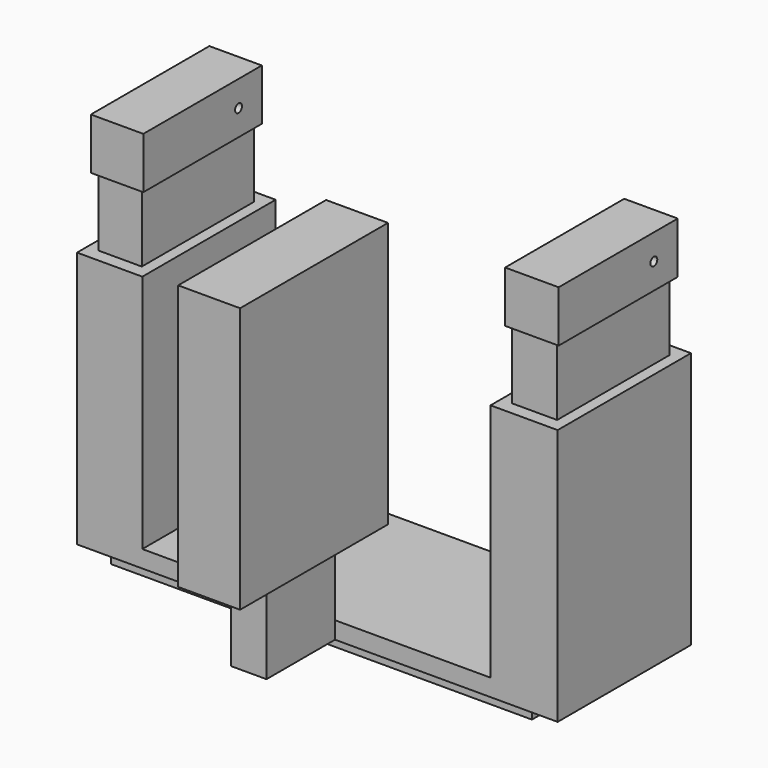
from build123d import *

# Parameters (mm, degrees)
F0_W      = 62.4516925456
F0_H      = 19.2159049461
F1_DEPTH  = 2.54
F0_W_2    = 5.240462238
F0_H_2    = 12.7
F1_FACE_W = 62.4516925456
F1_FACE_H = 19.2159049461
F2_DEPTH  = 2.54
F3_DEPTH  = 2.54
F4_DEPTH  = 12.7
F5_W      = 9.6827298403
F5_H      = 24.7204606325
F5_W_2    = 9.949860665
F6_DEPTH  = 35.56
F7_W      = 6.4173687831
F7_H      = 20.8289548615
F8_DEPTH  = 10.16
F9_W      = 6.6844996078
F9_H      = 20.8289548615
F10_DEPTH = 10.16
F11_W     = 6.4173687831
F11_H     = 20.8289548615
F12_DEPTH = 7.62
F13_W     = 6.6844996078
F13_H     = 20.8289548615
F14_DEPTH = 7.62
F16_D     = 1.27
F16_DEPTH = 127
F16_TIP   = 0.3815464931
F17_W     = 5.240462238
F17_H     = 12.7
F18_DEPTH = 39.37


with BuildPart() as f1:
    # F0 (on Top) → F1 (new body)
    with BuildSketch(Plane.XY):
        with Locations((34.3284141645, -12.7105206001)):
            Rectangle(F0_W, F0_H)
    extrude(amount=F1_DEPTH)

    # F0 (on Top) + F1_face (on face) → F2 (join)
    with BuildSketch(Plane.XY):
        Polygon((71.280462238, 0), (0, 0), (0, -24.7204606325), (33.02, -24.7204606325), (38.260462238, -24.7204606325), (71.280462238, -24.7204606325), align=None)
        with Locations((34.3284141645, -12.7105206001)):
            Rectangle(F0_W, F0_H, mode=Mode.SUBTRACT)
        with Locations((35.640231119, -31.0704606325)):
            Rectangle(F0_W_2, F0_H_2)
    with BuildSketch(Plane(origin=(34.3284141645, -12.7105206001, 0), x_dir=(1, 0, 0), z_dir=(0, 0, -1))):
        Rectangle(F1_FACE_W, F1_FACE_H)
    extrude(amount=F2_DEPTH, dir=(0, 0, 1))

    # F0 (on Top) → F3 (join)
    with BuildSketch(Plane.XY):
        with Locations((34.3284141645, -12.7105206001)):
            Rectangle(F0_W, F0_H)
    extrude(amount=-F3_DEPTH)

    # F0 (on Top) → F4 (join)
    with BuildSketch(Plane.XY):
        with Locations((35.640231119, -31.0704606325)):
            Rectangle(F0_W_2, F0_H_2)
    extrude(amount=F4_DEPTH)

    # F5 (on face) → F6 (join)
    with BuildSketch(Plane.XY.offset(2.54)):
        with Locations((4.8413649201, -12.3602303163)):
            Rectangle(F5_W, F5_H)
        with Locations((66.3055319055, -12.3602303163)):
            Rectangle(F5_W_2, F5_H)
    extrude(amount=F6_DEPTH)

    # F7 (on face) → F8 (join)
    with BuildSketch(Plane.XY.offset(38.1)):
        with Locations((4.8413649201, -12.3602303163)):
            Rectangle(F7_W, F7_H)
    extrude(amount=F8_DEPTH)

    # F9 (on face) → F10 (join)
    with BuildSketch(Plane.XY.offset(38.1)):
        with Locations((66.3055319055, -12.3602303163)):
            Rectangle(F9_W, F9_H)
    extrude(amount=F10_DEPTH)

    # F11 (on face) → F12 (join)
    with BuildSketch(Plane.XY.offset(48.26)):
        Polygon((8.7310628216, -1.3743147005), (0.9516670187, -1.3743147005), (1.6326805286, -1.9457528855), (8.0500493117, -1.9457528855), (8.0500493117, -22.774707747), (8.7310628216, -23.346145932), align=None)
        Polygon((1.6326805286, -1.9457528855), (0.9516670187, -1.3743147005), (0.9516670187, -23.346145932), (8.7310628216, -23.346145932), (8.0500493117, -22.774707747), (1.6326805286, -22.774707747), align=None)
        with Locations((4.8413649201, -12.3602303163)):
            Rectangle(F11_W, F11_H)
    extrude(amount=F12_DEPTH)

    # F13 (on face) → F14 (join)
    with BuildSketch(Plane.XY.offset(48.26)):
        Polygon((70.3287952193, -1.2647393756), (62.3918439166, -1.2647393756), (62.9632821016, -1.9457528855), (69.6477817094, -1.9457528855), (69.6477817094, -22.774707747), (70.3287952193, -23.346145932), align=None)
        Polygon((62.9632821016, -1.9457528855), (62.3918439166, -1.2647393756), (62.3918439166, -23.346145932), (70.3287952193, -23.346145932), (69.6477817094, -22.774707747), (62.9632821016, -22.774707747), align=None)
        with Locations((66.3055319055, -12.3602303163)):
            Rectangle(F13_W, F13_H)
    extrude(amount=F14_DEPTH)

    # F16
    with Locations(Plane(origin=(0.9516670187, 0, 0), x_dir=(0, -1, 0), z_dir=(-1, 0, 0))):
        with Locations((5.6923147005, 52.07)):
            Hole(F16_D / 2, depth=F16_DEPTH)
            with Locations((0, 0, -(F16_DEPTH + F16_TIP / 2))):  # 118° drill point
                Cone(0, F16_D / 2, F16_TIP, mode=Mode.SUBTRACT)

    # F17 (on face) → F18 (join)
    with BuildSketch(Plane.XY.offset(12.7)):
        Polygon((40.2326633617, -17.3601058362), (31.0477988763, -17.3601058362), (33.02, -24.7204606325), (38.260462238, -24.7204606325), (38.260462238, -37.4204606325), (40.2326633617, -44.7808154288), align=None)
        Polygon((33.02, -24.7204606325), (31.0477988763, -17.3601058362), (31.0477988763, -44.7808154288), (40.2326633617, -44.7808154288), (38.260462238, -37.4204606325), (33.02, -37.4204606325), align=None)
        with Locations((35.640231119, -31.0704606325)):
            Rectangle(F17_W, F17_H)
    extrude(amount=F18_DEPTH)


solid = f1.part
